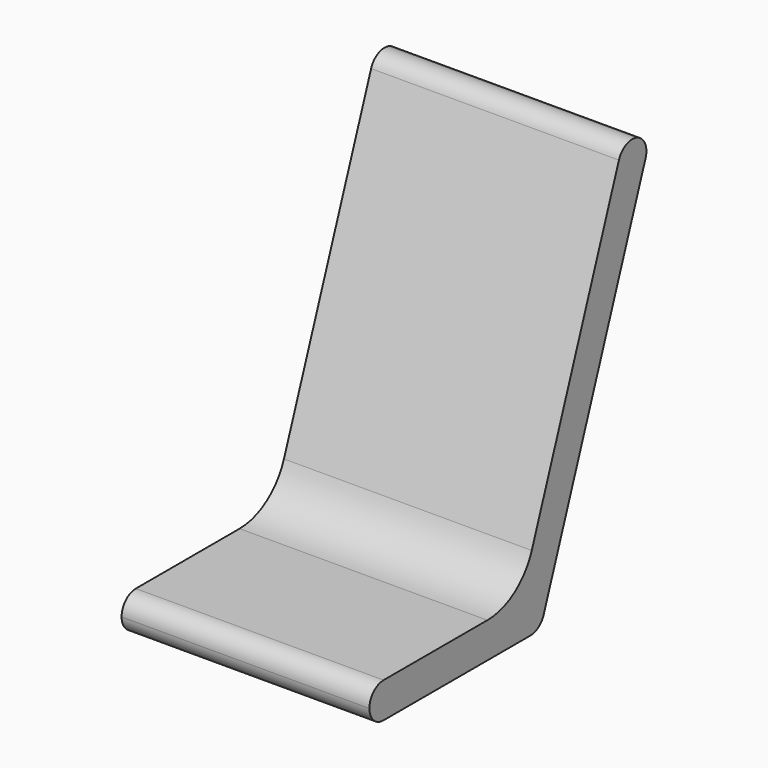
from build123d import *

# Parameters (mm, degrees)
F1_DEPTH = 533.4


with BuildPart() as f1:
    # F0 (on Right) → F1 (new body)
    with BuildSketch(Plane.YZ):
        with BuildLine():
            Line((264.963005, 727.979873), (30.414605, 83.563442))
            ThreePointArc((30.414605, 83.563442), (-16.08215, 22.96769), (-88.926357, 0))
            Line((-88.926357, 0), (-368.3, 0))
            ThreePointArc((-368.3, 0), (-395.240768, -11.159232), (-406.4, -38.1))
            ThreePointArc((-406.4, -38.1), (-395.240768, -65.040768), (-368.3, -76.2))
            Line((-368.3, -76.2), (26.677907, -76.2))
            ThreePointArc((26.677907, -76.2), (48.531169, -69.309693), (62.480196, -51.130967))
            Line((62.480196, -51.130967), (336.567583, 701.917938))
            ThreePointArc((336.567583, 701.917938), (335.295621, 731.050662), (313.796261, 750.751195))
            ThreePointArc((313.796261, 750.751195), (284.663538, 749.479233), (264.963005, 727.979873))
        make_face()
    extrude(amount=F1_DEPTH)


solid = f1.part
